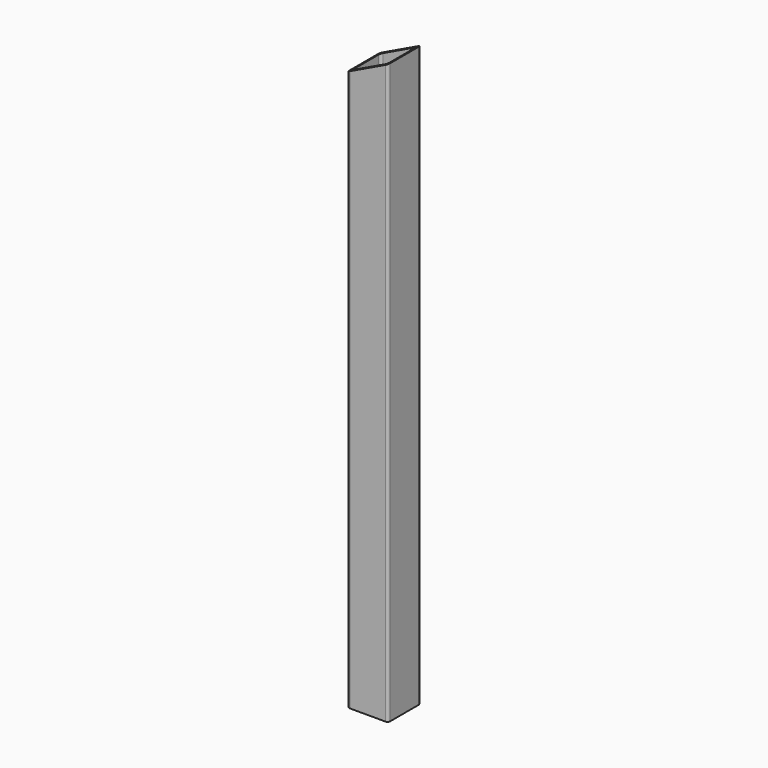
from build123d import *

# Parameters (mm, degrees)
F1_DEPTH      = 723.9
F3_DEPTH      = 50.8
F3_DEPTH_BACK = 50.8


with BuildPart() as f1:
    # F0 (on Top) → F1 (new body)
    with BuildSketch(Plane.XY):
        with BuildLine():
            ThreePointArc((25.4, 22.225), (24.4700640303, 24.4700640303), (22.225, 25.4))
            Line((22.225, 25.4), (-22.225, 25.4))
            ThreePointArc((-22.225, 25.4), (-24.4700640303, 24.4700640303), (-25.4, 22.225))
            Line((-25.4, 22.225), (-25.4, -22.225))
            ThreePointArc((-25.4, -22.225), (-24.4700640303, -24.4700640303), (-22.225, -25.4))
            Line((-22.225, -25.4), (22.225, -25.4))
            ThreePointArc((22.225, -25.4), (24.4700640303, -24.4700640303), (25.4, -22.225))
            Line((25.4, -22.225), (25.4, 22.225))
        make_face()
        with BuildLine():
            Line((-19.05, 22.225), (19.05, 22.225))
            ThreePointArc((19.05, 22.225), (21.2950640303, 21.2950640303), (22.225, 19.05))
            Line((22.225, 19.05), (22.225, -19.05))
            ThreePointArc((22.225, -19.05), (21.2950640303, -21.2950640303), (19.05, -22.225))
            Line((19.05, -22.225), (-19.05, -22.225))
            ThreePointArc((-19.05, -22.225), (-21.2950640303, -21.2950640303), (-22.225, -19.05))
            Line((-22.225, -19.05), (-22.225, 19.05))
            ThreePointArc((-22.225, 19.05), (-21.2950640303, 21.2950640303), (-19.05, 22.225))
        make_face(mode=Mode.SUBTRACT)
    extrude(amount=F1_DEPTH)

    # F2 (on Front) → F3 (cut, two sides)
    with BuildSketch(Plane.XZ) as f3_sk:
        Polygon((-25.4, 699.484362387), (25.4, 723.9), (-25.4, 723.9), align=None)
    extrude(amount=-F3_DEPTH, mode=Mode.SUBTRACT)
    extrude(f3_sk.sketch, amount=F3_DEPTH_BACK, mode=Mode.SUBTRACT)


solid = f1.part
